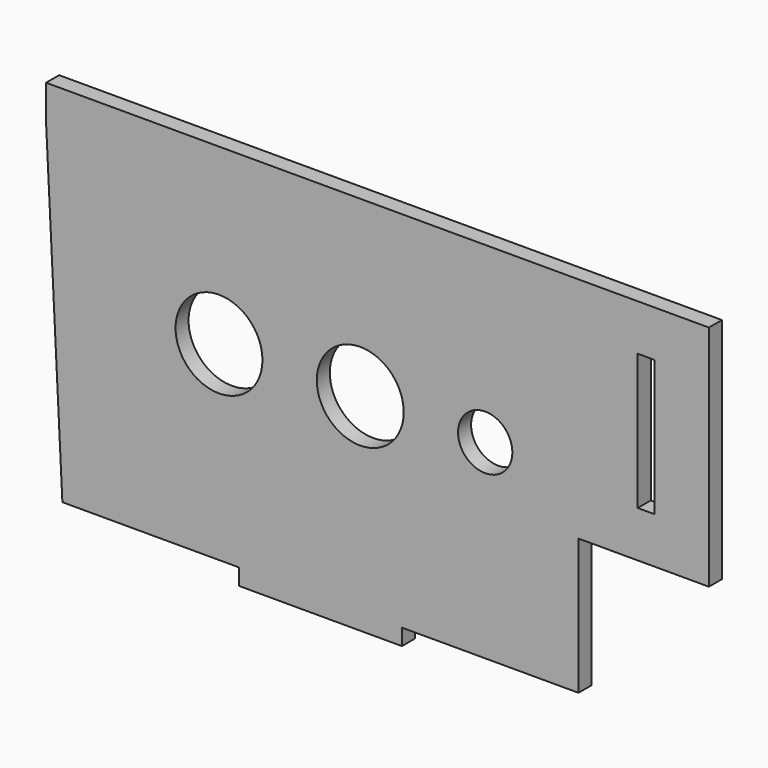
from build123d import *

# Parameters (mm, degrees)
F0_W     = 30
F0_H     = 3
F1_DEPTH = 3
F2_W     = 3.1
F2_H     = 25
F3_DEPTH = 25
F4_R     = 8
F4_R_2   = 5
F5_DEPTH = 25


with BuildPart() as f1:
    # F0 (on Front) → F1 (new body)
    with BuildSketch(Plane.XZ):
        Polygon((68.720056, 6.5), (44.720056, 6.5), (-50.279944, 6.5), (-53.279944, 6.5), (-53.279944, 0), (-50.279944, -60.5), (-17.779944, -60.5), (12.220056, -60.5), (44.720056, -60.5), (44.720056, -35.5), (68.720056, -35.5), align=None)
        with Locations((-2.779944, -62)):
            Rectangle(F0_W, F0_H)
    extrude(amount=F1_DEPTH)

    # F2 (on face) → F3 (cut)
    with BuildSketch(Plane(origin=(0, 0, 0), x_dir=(-1, 0, 0), z_dir=(0, 1, 0))):
        with Locations((-57.170056, -14.5)):
            Rectangle(F2_W, F2_H)
    extrude(amount=-F3_DEPTH, mode=Mode.SUBTRACT)

    # F4 (on face) → F5 (cut)
    with BuildSketch(Plane.XZ.offset(3)):
        with Locations((-21.452965, -25.5)):
            Circle(F4_R)
        with Locations((4.547035, -25.5)):
            Circle(F4_R)
        with Locations((27.547035, -25.5)):
            Circle(F4_R_2)
    extrude(amount=-F5_DEPTH, mode=Mode.SUBTRACT)


solid = f1.part
